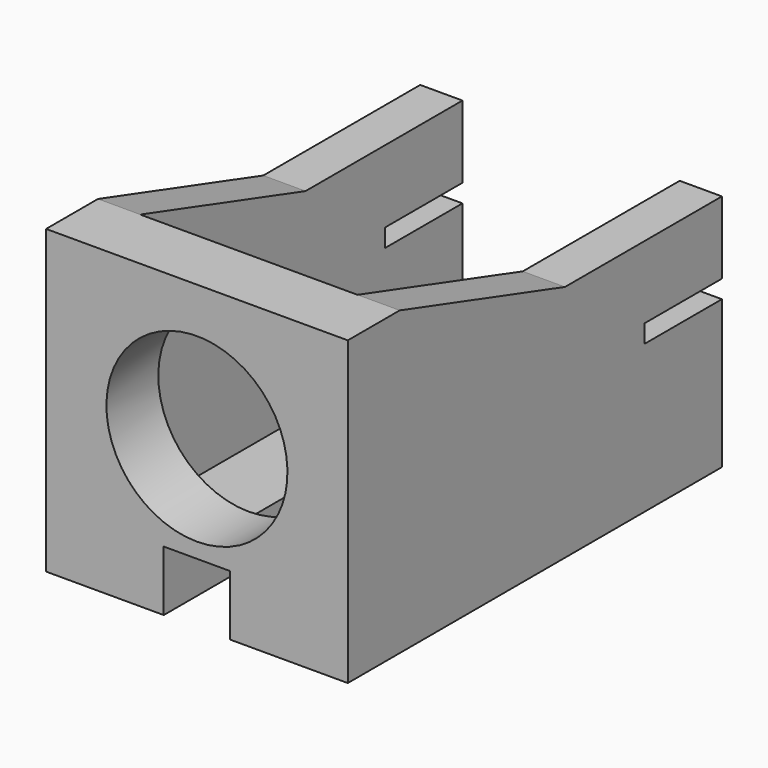
from build123d import *

# Parameters (mm, degrees)
SKETCH080_W     = 15.5
SKETCH080_H     = 10
PAD047_DEPTH    = 10
POCKET016_DEPTH = 9
POCKET017_DEPTH = 10
POCKET015_DEPTH = 8.6
SKETCH088_R     = 3
HOLE003_DEPTH   = 25
SKETCH083_W     = 3.2
SKETCH083_H     = 0.6
POCKET018_DEPTH = 10


with BuildPart() as part:
    # Sketch080 → Pad047 (new body)
    with BuildSketch(Plane.YZ):
        with Locations((7.75, 5)):
            Rectangle(SKETCH080_W, SKETCH080_H)
    extrude(amount=PAD047_DEPTH)

    # Sketch087 (on Face1 of Pad047) → Pocket016 (cut)
    with BuildSketch(Plane(origin=(0, 0, 0), x_dir=(0, 0, -1), z_dir=(0, -1, 0))):
        Polygon((-2, 6.1), (-2, 3.9), (0, 3.9), (0, 5), (0, 6.1), align=None)
    extrude(amount=-POCKET016_DEPTH, mode=Mode.SUBTRACT)

    # Sketch089 → Pocket017 (cut)
    with BuildSketch(Plane.YZ.offset(10)):
        Polygon((2.15, 10), (9, 7.9), (15.5, 7.9), (15.5, 10), align=None)
    extrude(amount=-POCKET017_DEPTH, mode=Mode.SUBTRACT)

    # Sketch081 (on Face4 of Pad047) → Pocket015 (cut)
    with BuildSketch(Plane(origin=(0, 0, 10), x_dir=(0, -1, 0), z_dir=(0, 0, 1))):
        Polygon((-15.5, 8.6), (-15.5, 5), (-15.5, 1.4), (-2.15, 1.4), (-2.15, 8.6), align=None)
    extrude(amount=-POCKET015_DEPTH, mode=Mode.SUBTRACT)

    # Sketch088 (on Face1 of Pocket016) → Hole003 (cut)
    with BuildSketch(Plane(origin=(0, 0, 0), x_dir=(0, 0, -1), z_dir=(0, -1, 0))):
        with Locations((-5.5, 5)):
            Circle(SKETCH088_R)
    extrude(amount=-HOLE003_DEPTH, mode=Mode.SUBTRACT)

    # Sketch083 (on Face2 of Hole003) → Pocket018 (cut)
    with BuildSketch(Plane(origin=(0, 0, 0), x_dir=(0, 1, 0), z_dir=(-1, 0, 0))):
        with Locations((13.9, -5.2)):
            Rectangle(SKETCH083_W, SKETCH083_H)
    extrude(amount=-POCKET018_DEPTH, mode=Mode.SUBTRACT)


solid = part.part
